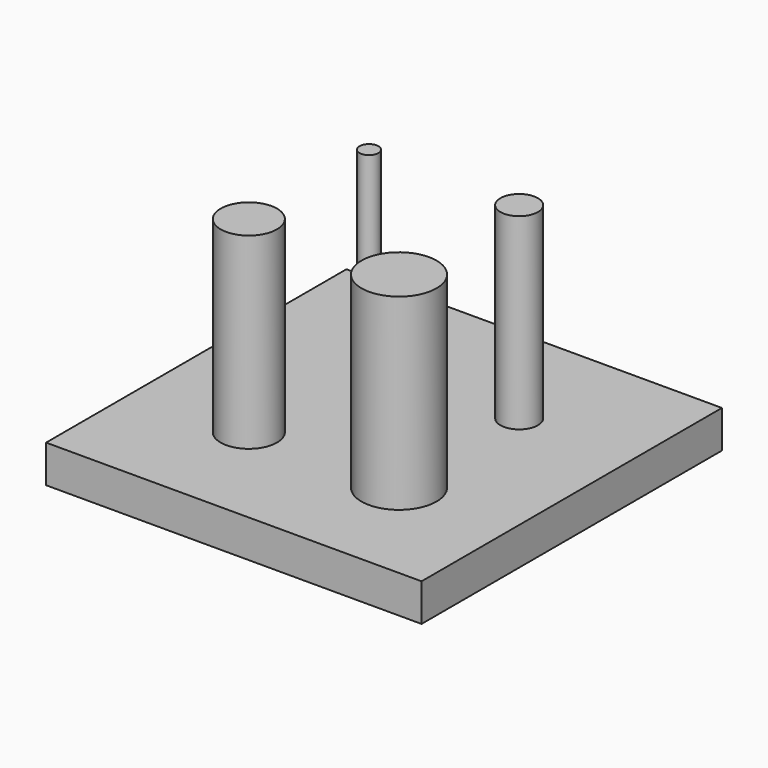
from build123d import *

# Parameters (mm, degrees)
F0_W     = 20
F0_H     = 20
F0_R     = 1.5
F0_R_2   = 2
F0_R_3   = 0.5
F0_R_4   = 1
F1_DEPTH = 2
F2_R     = 1
F2_R_2   = 0.5
F2_R_3   = 2
F2_R_4   = 1.5
F3_DEPTH = 10


with BuildPart() as f1:
    # F0 (on Top) → F1 (new body)
    with BuildSketch(Plane.XY):
        with Locations((-10, -10)):
            Rectangle(F0_W, F0_H)
        with Locations((-14, -14)):
            Circle(F0_R, mode=Mode.SUBTRACT)
        with Locations((-6, -14)):
            Circle(F0_R_2, mode=Mode.SUBTRACT)
        with Locations((-14, -6)):
            Circle(F0_R_3, mode=Mode.SUBTRACT)
        with Locations((-6, -6)):
            Circle(F0_R_4, mode=Mode.SUBTRACT)
        with Locations((-14, -6)):
            Circle(F0_R_3)
        with Locations((-6, -6)):
            Circle(F0_R_4)
        with Locations((-6, -14)):
            Circle(F0_R_2)
        with Locations((-14, -14)):
            Circle(F0_R)
    extrude(amount=F1_DEPTH)

    # F2 (on face) → F3 (join)
    with BuildSketch(Plane.XY.offset(2)):
        with Locations((-6, -6)):
            Circle(F2_R)
        with Locations((-14, -6)):
            Circle(F2_R_2)
        with Locations((-6, -14)):
            Circle(F2_R_3)
        with Locations((-14, -14)):
            Circle(F2_R_4)
    extrude(amount=F3_DEPTH)


solid = f1.part
